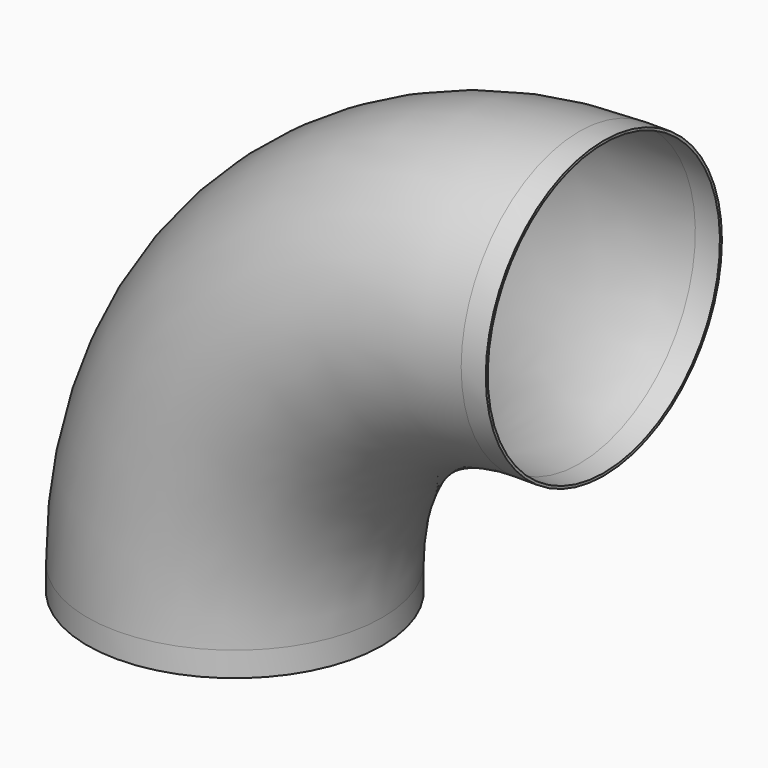
from build123d import *

# Parameters (mm, degrees)
F0_R     = 76.2
F0_R_2   = 74.93
F1_DEPTH = 12.7
F2_R     = 76.2
F2_R_2   = 74.93
F3_ANGLE = 90
F4_DEPTH = 12.7


with BuildPart() as f1:
    # F0 (on Top) → F1 (new body)
    with BuildSketch(Plane.XY):
        Circle(F0_R)
        Circle(F0_R_2, mode=Mode.SUBTRACT)
    extrude(amount=F1_DEPTH)

    # F2 (on face) → F3 (revolve)
    with BuildSketch(Plane.XY.offset(12.7)):
        Circle(F2_R)
        Circle(F2_R_2, mode=Mode.SUBTRACT)
    revolve(axis=Axis((177.8, -2.9342612252, 12.7), (0, 1, 0)), revolution_arc=F3_ANGLE)

    # F4 (add): a face of the model
    f4_faces = [f1.faces().sort_by_distance(p)[0] for p in [
        (177.8, 0, 266.4844738531),
    ]]
    extrude(f4_faces, amount=F4_DEPTH)


solid = f1.part
